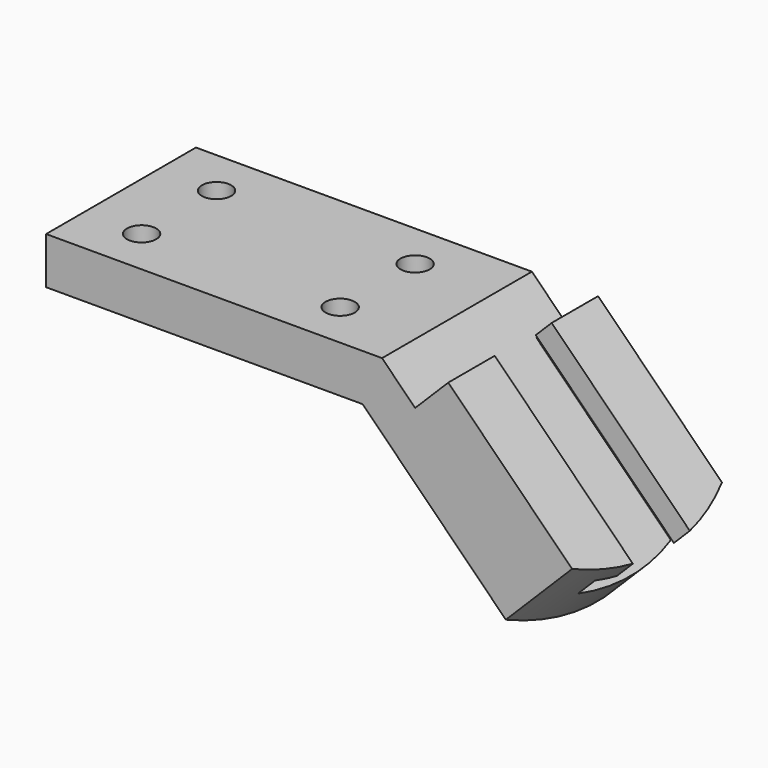
from build123d import *

# Parameters (mm, degrees)
F1_DEPTH       = 50.8
F3_D           = 7.9248
F3_CBORE_D     = 12.7
F3_CBORE_DEPTH = 6.096
F5_DEPTH       = 118.4823439803
F7_DEPTH       = 66.5486543438


with BuildPart() as f1:
    # F0 (on Front) → F1 (new body)
    with BuildSketch(Plane.XZ):
        Polygon((0, 12.7), (0, 0), (85.852, 0), (131.6378767242, -45.7858767242), (149.7304108726, -27.9583640517), (109.0720468209, 12.7), (100.0917906999, 3.7197438789), (91.1115345788, 12.7), align=None)
    extrude(amount=F1_DEPTH)

    # F3 (through all)
    with Locations(Plane(origin=(0, 0, 0), x_dir=(1, 0, 0), z_dir=(0, 0, -1))):
        with Locations((15.748, 12.7), (15.748, 38.1), (69.596, 38.1), (69.596, 12.7)):
            CounterBoreHole(F3_D / 2, F3_CBORE_D / 2, F3_CBORE_DEPTH)

    # F4 (on face) → F5 (cut, through all)
    with BuildSketch(Plane(origin=(60.8860234105, 0, 60.8860234105), x_dir=(0.7071067812, 0, -0.7071067812), z_dir=(0.7071067812, 0, 0.7071067812))):
        with BuildLine():
            ThreePointArc((115.6263461786, 0), (121.9933278239, -25.4), (115.6263461786, -50.8))
            Line((115.6263461786, -50.8), (125.6449376897, -50.8))
            Line((125.6449376897, -50.8), (125.6449376897, 0))
            Line((125.6449376897, 0), (115.6263461786, 0))
        make_face()
    extrude(amount=-F5_DEPTH, mode=Mode.SUBTRACT)

    # F6 (on face) → F7 (cut, through all)
    with BuildSketch(Plane(origin=(48.1860234105, 0, -48.1860234105), x_dir=(0, -1, 0), z_dir=(-0.7071067812, 0, 0.7071067812))):
        Polygon((9.652, 73.405840066), (41.148, 73.405840066), (41.148, 80.009840066), (35.052, 80.009840066), (35.052, 86.105840066), (15.748, 86.105840066), (15.748, 80.009840066), (9.652, 80.009840066), align=None)
    extrude(amount=-F7_DEPTH, mode=Mode.SUBTRACT)


solid = f1.part
